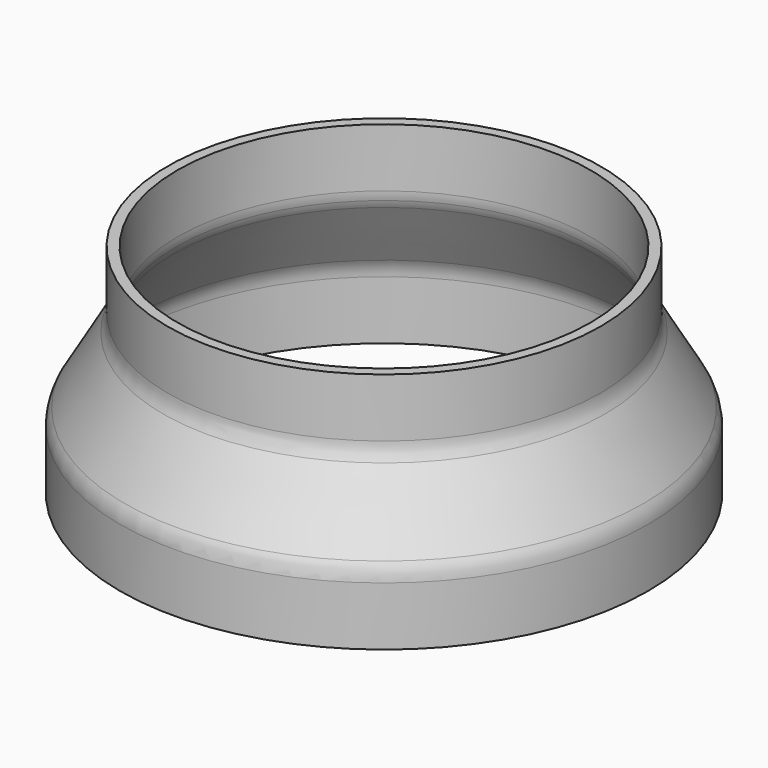
from build123d import *


with BuildPart() as f1:
    # F0 (on Front) → F1 (revolve)
    with BuildSketch(Plane.XZ):
        with BuildLine():
            ThreePointArc((61.36567, 10.486363), (61.779417, 9.295344), (62.339746, 8.165855))
            Line((62.339746, 8.165855), (73.660254, -11.44184))
            ThreePointArc((73.660254, -11.44184), (74.659258, -13.853649), (75, -16.44184))
            Line((75, -16.44184), (75, -33.762348))
            Line((75, -33.762348), (78, -33.762348))
            Line((78, -33.762348), (78, -16.44184))
            ThreePointArc((78, -16.44184), (77.659258, -13.853649), (76.660254, -11.44184))
            Line((76.660254, -11.44184), (65.339746, 8.165855))
            ThreePointArc((65.339746, 8.165855), (64.340742, 10.577665), (64, 13.165855))
            Line((64, 13.165855), (64, 30.486363))
            Line((64, 30.486363), (61, 30.486363))
            Line((61, 30.486363), (61, 13.165855))
            ThreePointArc((61, 13.165855), (61.091839, 11.813691), (61.36567, 10.486363))
        make_face()
    revolve(axis=Axis((0, 0, 3.03654), (0, 0, 1)))


solid = f1.part
